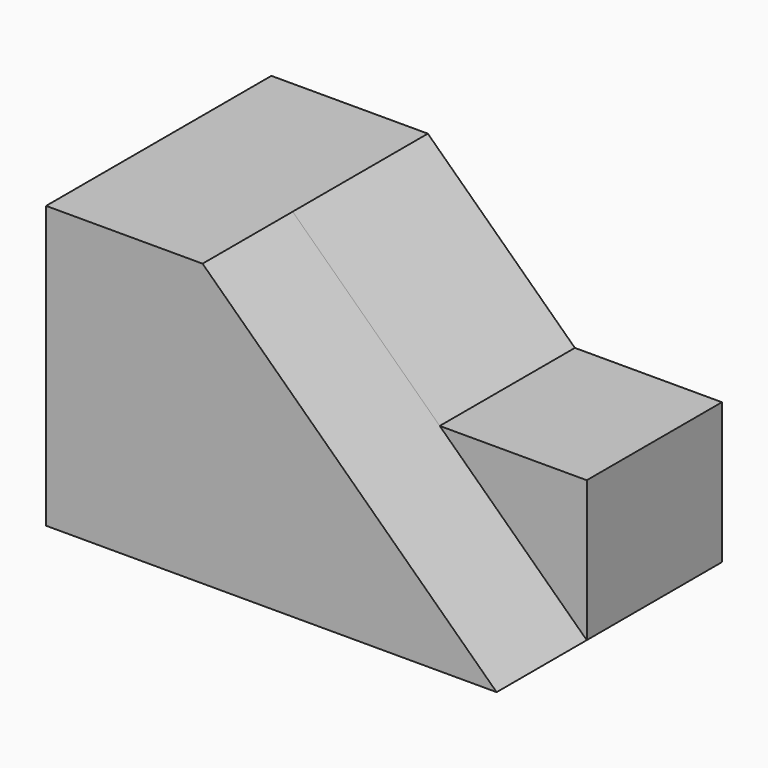
from build123d import *

# Parameters (mm, degrees)
F0_W     = 50.8
F0_H     = 31.75
F1_DEPTH = 31.75
F3_DEPTH = 12.7
F5_DEPTH = 25.4
F6_W     = 16.5787817255
F6_H     = 7.9375
F7_DEPTH = 25.4
F8_W     = 16.5787817255
F8_H     = 7.9375
F9_DEPTH = 25.4


with BuildPart() as f1:
    # F0 (on Front) → F1 (new body)
    with BuildSketch(Plane.XZ):
        with Locations((25.4, 15.875)):
            Rectangle(F0_W, F0_H)
    extrude(amount=F1_DEPTH)

    # F2 (on face) → F3 (cut)
    with BuildSketch(Plane.XZ.offset(31.75)):
        Polygon((50.8, 31.75), (17.6424365491, 31.75), (50.8, 0), align=None)
    extrude(amount=-F3_DEPTH, mode=Mode.SUBTRACT)

    # F4 (on face) → F5 (cut)
    with BuildSketch(Plane.XZ.offset(19.05)):
        Polygon((17.6424365491, 31.75), (34.2212182745, 15.875), (34.2212182745, 31.75), align=None)
    extrude(amount=-F5_DEPTH, mode=Mode.SUBTRACT)

    # F6 (on face) → F7 (cut)
    with BuildSketch(Plane.XZ.offset(19.05)):
        with Locations((42.5106091373, 27.78125)):
            Rectangle(F6_W, F6_H)
    extrude(amount=-F7_DEPTH, mode=Mode.SUBTRACT)

    # F8 (on face) → F9 (cut)
    with BuildSketch(Plane.XZ.offset(19.05)):
        with Locations((42.5106091373, 19.84375)):
            Rectangle(F8_W, F8_H)
    extrude(amount=-F9_DEPTH, mode=Mode.SUBTRACT)


solid = f1.part
